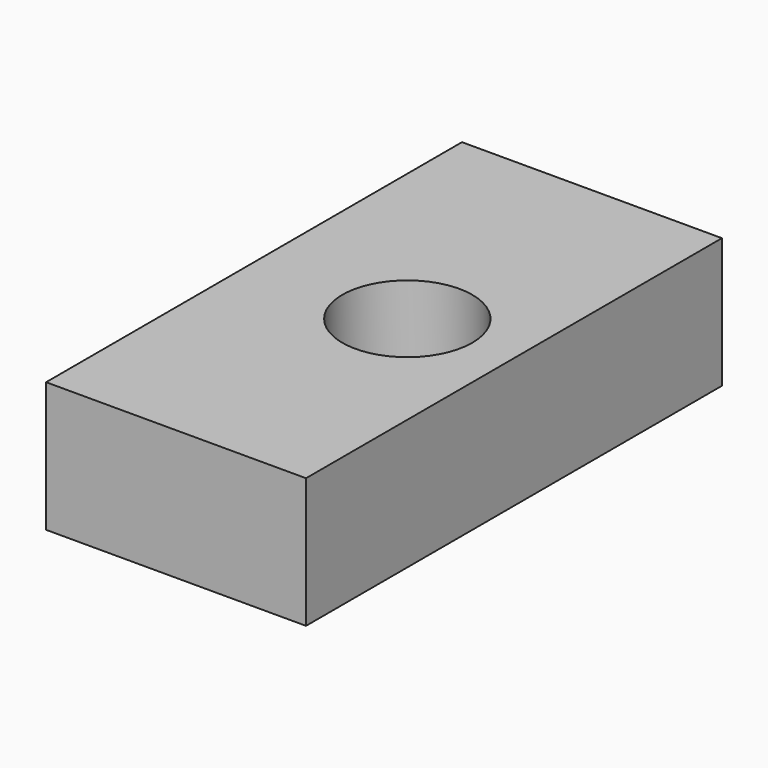
from build123d import *

# Parameters (mm, degrees)
F0_W     = 25.4
F0_H     = 50.8
F1_DEPTH = 12.7
F2_R     = 6.35
F3_DEPTH = 24.384


with BuildPart() as f1:
    # F0 (on Top) → F1 (new body)
    with BuildSketch(Plane.XY):
        with Locations((-2.275833, 0)):
            Rectangle(F0_W, F0_H)
        with Locations((-2.275833, 0)):
            Rectangle(F0_W, F0_H)
    extrude(amount=F1_DEPTH)

    # F2 (on face) → F3 (cut)
    with BuildSketch(Plane.XY.offset(12.7)):
        Circle(F2_R)
    extrude(amount=-F3_DEPTH, mode=Mode.SUBTRACT)


solid = f1.part
